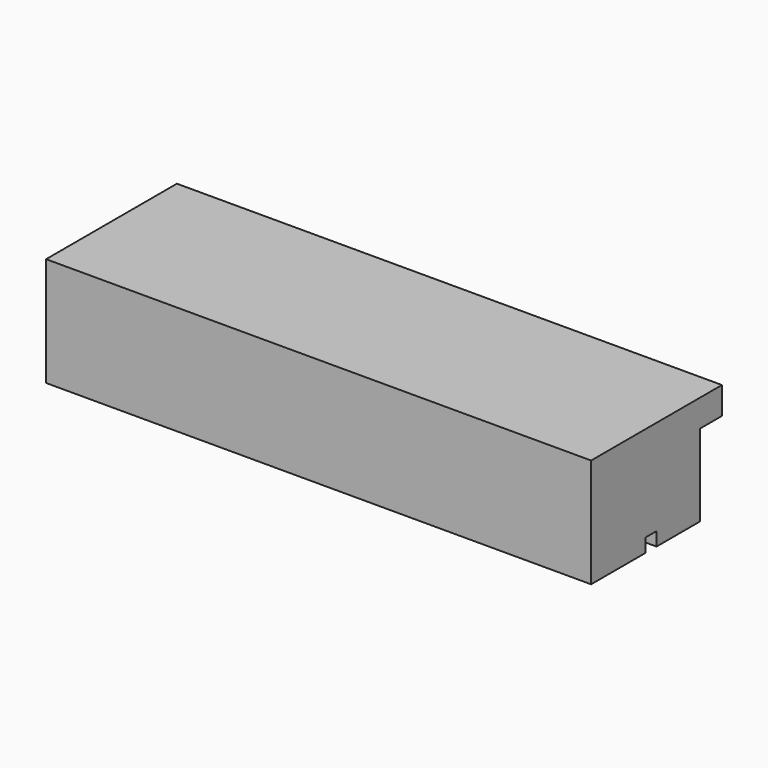
from build123d import *

# Parameters (mm, degrees)
F1_DEPTH = 200
F2_W     = 200
F2_H     = 5
F3_DEPTH = 5


with BuildPart() as f1:
    # F0 (on Right) → F1 (new body)
    with BuildSketch(Plane.YZ):
        Polygon((10, 30), (10, 40), (-50, 40), (-50, 30), (-50, 0), (0, 0), (0, 30), align=None)
    extrude(amount=-F1_DEPTH)

    # F2 (on face) → F3 (cut)
    with BuildSketch(Plane(origin=(0, 0, 0), x_dir=(1, 0, 0), z_dir=(0, 0, -1))):
        with Locations((-100, 22.5)):
            Rectangle(F2_W, F2_H)
    extrude(amount=-F3_DEPTH, mode=Mode.SUBTRACT)


solid = f1.part
